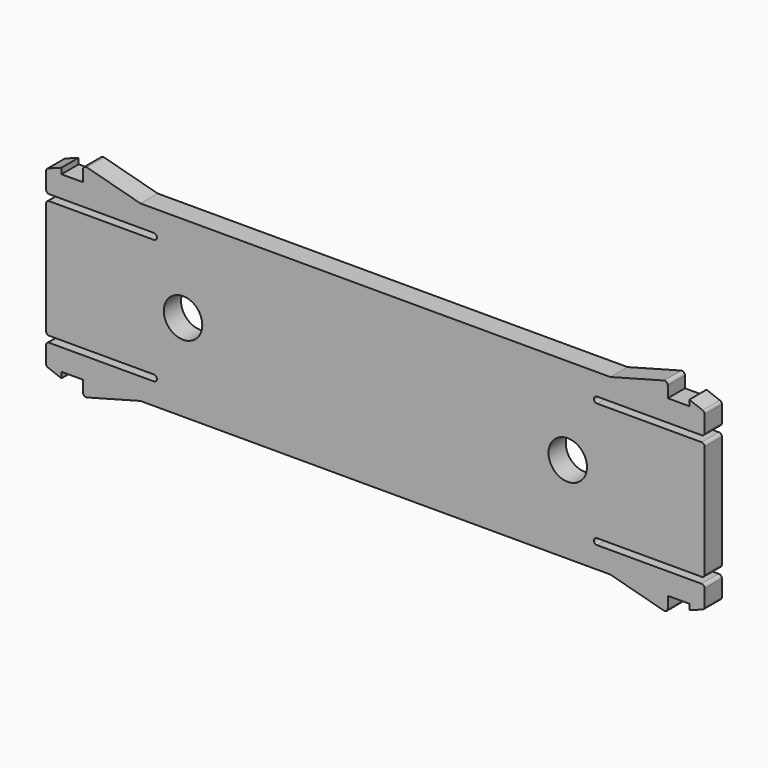
from build123d import *

# Parameters (mm, degrees)
PAD010_DEPTH    = 2.8
FILLET003_R     = 0.4
SKETCH016_R     = 2.5
POCKET003_DEPTH = 2.801


with BuildPart() as part:
    # Sketch010 (on Face2 of ShapeBinder009) → Pad010 (new body)
    with BuildSketch(Plane.XZ.offset(25.388718)):
        with BuildLine():
            Line((42.8, 63.127675), (42.8, 60.327675))
            Line((42.8, 60.327675), (28.8, 60.327675))
            ThreePointArc((28.8, 60.327675), (28.4, 59.927675), (28.8, 59.527675))
            Line((28.8, 59.527675), (42.8, 59.527675))
            Line((42.8, 59.527675), (42.8, 44.127675))
            Line((42.8, 44.127675), (28.8, 44.127675))
            ThreePointArc((28.8, 44.127675), (28.4, 43.727675), (28.8, 43.327675))
            Line((28.8, 43.327675), (42.8, 43.327675))
            Line((42.8, 43.327675), (42.8, 40.527675))
            Line((42.8, 40.527675), (40.8, 39.777675))
            Line((40.8, 40.527675), (40.8, 39.777675))
            Line((40.8, 40.527675), (38, 40.527675))
            Line((38, 40.527675), (38, 38.527675))
            Line((38, 38.527675), (30.535898, 40.527675))
            Line((30.535898, 40.527675), (-30.535898, 40.527675))
            Line((-30.535898, 40.527675), (-38, 38.527675))
            Line((-38, 38.527675), (-38, 40.527675))
            Line((-38, 40.527675), (-40.8, 40.527675))
            Line((-40.8, 40.527675), (-40.8, 39.777675))
            Line((-42.8, 40.527675), (-40.8, 39.777675))
            Line((-42.8, 40.527675), (-42.8, 43.327675))
            Line((-42.8, 43.327675), (-28.8, 43.327675))
            ThreePointArc((-28.8, 43.327675), (-28.4, 43.727675), (-28.8, 44.127675))
            Line((-28.8, 44.127675), (-42.8, 44.127675))
            Line((-42.8, 44.127675), (-42.8, 59.527675))
            Line((-42.8, 59.527675), (-28.8, 59.527675))
            ThreePointArc((-28.8, 59.527675), (-28.4, 59.927675), (-28.8, 60.327675))
            Line((-28.8, 60.327675), (-42.8, 60.327675))
            Line((-42.8, 60.327675), (-42.8, 63.127675))
            Line((-40.8, 63.877675), (-42.8, 63.127675))
            Line((-40.8, 63.127675), (-40.8, 63.877675))
            Line((-40.8, 63.127675), (-38, 63.127675))
            Line((-38, 63.127675), (-38, 65.127675))
            Line((-38, 65.127675), (-30.535898, 63.127675))
            Line((-30.535898, 63.127675), (30.535898, 63.127675))
            Line((30.535898, 63.127675), (38, 65.127675))
            Line((38, 65.127675), (38, 63.127675))
            Line((38, 63.127675), (40.8, 63.127675))
            Line((40.8, 63.127675), (40.8, 63.877675))
            Line((40.8, 63.877675), (42.8, 63.127675))
        make_face()
    extrude(amount=-PAD010_DEPTH)

    # Fillet003
    fillet003_edges = [part.edges().sort_by_distance(p)[0] for p in [
        (-42.8, -23.988718, 60.327675),
        (-42.8, -23.988718, 63.127675),
        (-42.8, -23.988718, 59.527675),
        (-38, -23.988718, 65.127675),
        (38, -23.988718, 65.127675),
        (42.8, -23.988718, 63.127675),
        (42.8, -23.988718, 60.327675),
        (42.8, -23.988718, 59.527675),
        (42.8, -23.988718, 44.127675),
        (42.8, -23.988718, 43.327675),
        (42.8, -23.988718, 40.527675),
        (38, -23.988718, 38.527675),
        (-42.8, -23.988718, 44.127675),
        (-42.8, -23.988718, 43.327675),
        (-42.8, -23.988718, 40.527675),
        (-38, -23.988718, 38.527675),
    ]]
    fillet(fillet003_edges, radius=FILLET003_R)

    # Sketch016 (on Face2 of Fillet003) → Pocket003 (cut, through all)
    with BuildSketch(Plane.XZ.offset(25.388718)):
        with Locations((-25, 51.827675)):
            Circle(SKETCH016_R)
        with Locations((25, 51.827675)):
            Circle(SKETCH016_R)
    extrude(amount=-POCKET003_DEPTH, mode=Mode.SUBTRACT)


solid = part.part
